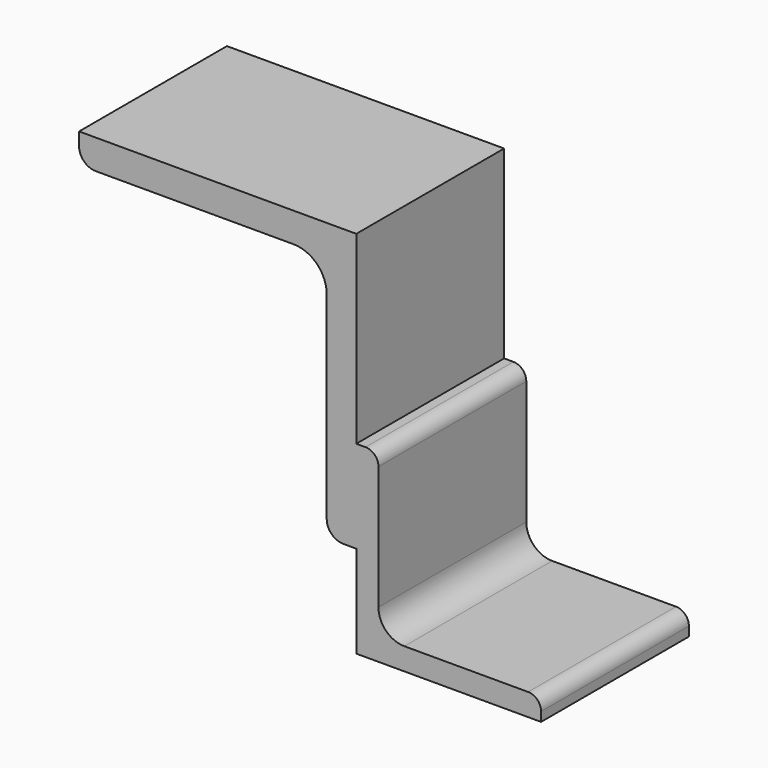
from build123d import *

# Parameters (mm, degrees)
F1_DEPTH = 50


with BuildPart() as f1:
    # F0 (on Front) → F1 (new body)
    with BuildSketch(Plane.XZ):
        with BuildLine():
            Line((0, 0), (-75, 0))
            Line((-75, 0), (-75, -3.5))
            ThreePointArc((-75, -3.5), (-73.681981, -6.681981), (-70.5, -8))
            Line((-70.5, -8), (-17, -8))
            ThreePointArc((-17, -8), (-10.636039, -10.636039), (-8, -17))
            Line((-8, -17), (-8, -70.5))
            ThreePointArc((-8, -70.5), (-6.681981, -73.681981), (-3.5, -75))
            Line((-3.5, -75), (0, -75))
            Line((0, -75), (0, -50))
            Line((0, -50), (0, 0))
        make_face()
        with BuildLine():
            Line((2.5, -50), (0, -50))
            Line((0, -50), (0, -75))
            Line((0, -75), (0, -100))
            Line((0, -100), (50, -100))
            Line((50, -100), (50, -97.5))
            ThreePointArc((50, -97.5), (48.974874, -95.025126), (46.5, -94))
            Line((46.5, -94), (13, -94))
            ThreePointArc((13, -94), (8.050253, -91.949747), (6, -87))
            Line((6, -87), (6, -53.5))
            ThreePointArc((6, -53.5), (4.974874, -51.025126), (2.5, -50))
        make_face()
    extrude(amount=F1_DEPTH)


solid = f1.part
